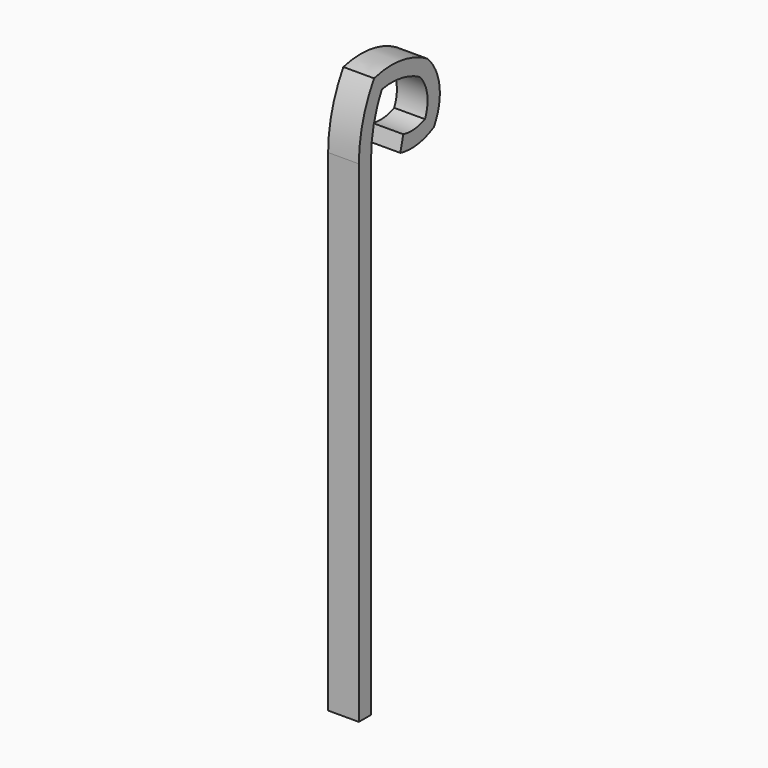
from build123d import *

# Parameters (mm, degrees)
F0_W = 3.175
F0_H = 1.5875


with BuildPart() as f2:
    # F2: sweep along a path in F1
    with BuildLine(Plane.YZ) as f2_path:
        Line((0, 0), (0, 50.8))
        ThreePointArc((0, 50.8), (0.4280140937, 54.0549830382), (1.6829564702, 57.0886656642))
        ThreePointArc((1.6829564702, 57.0886656642), (4.7221119441, 57.1776447605), (7.5789801776, 56.1371222138))
        ThreePointArc((7.5789801776, 56.1371222138), (8.8392841167, 53.5932413011), (8.331840375, 50.8))
        ThreePointArc((8.331840375, 50.8), (6.5820659855, 50.2648305913), (4.7563990811, 50.3875378201))
    # F0 (on Top) → F2 (sweep)
    with BuildSketch(Plane.XY):
        Rectangle(F0_W, F0_H)
    sweep(path=f2_path.line, transition=Transition.RIGHT)


solid = f2.part
